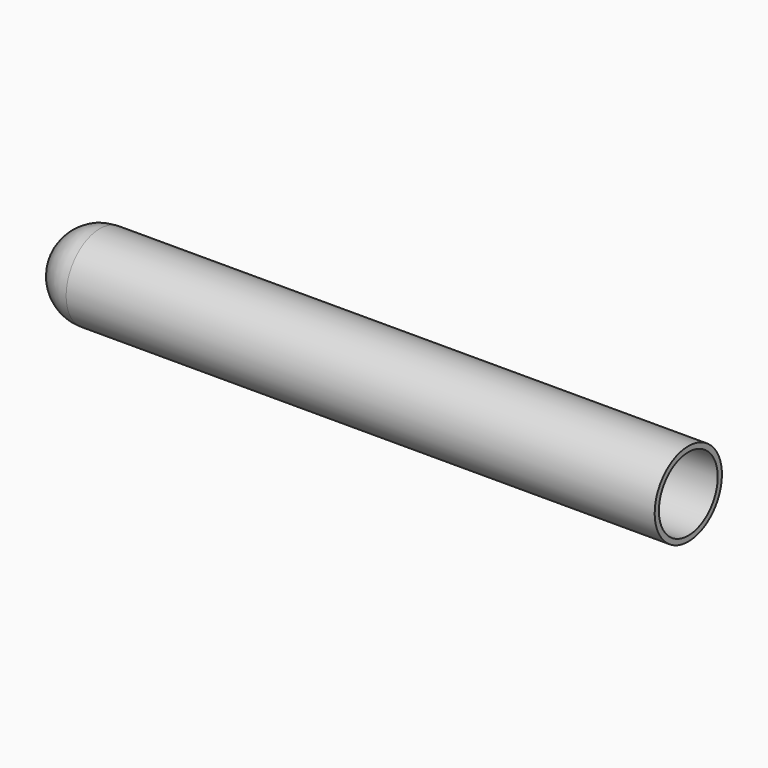
from build123d import *


with BuildPart() as f1:
    # F0 (on Front) → F1 (revolve)
    with BuildSketch(Plane.XZ):
        with BuildLine():
            Line((0, 8), (-112, 8))
            ThreePointArc((-112, 8), (-117.656854, 5.656854), (-120, 0))
            Line((-120, 0), (-119, 0))
            ThreePointArc((-119, 0), (-116.949747, 4.949747), (-112, 7))
            Line((-112, 7), (0, 7))
            Line((0, 7), (0, 8))
        make_face()
    revolve(axis=Axis((-59.965619, 0, 0), (-1, 0, 0)))


solid = f1.part
